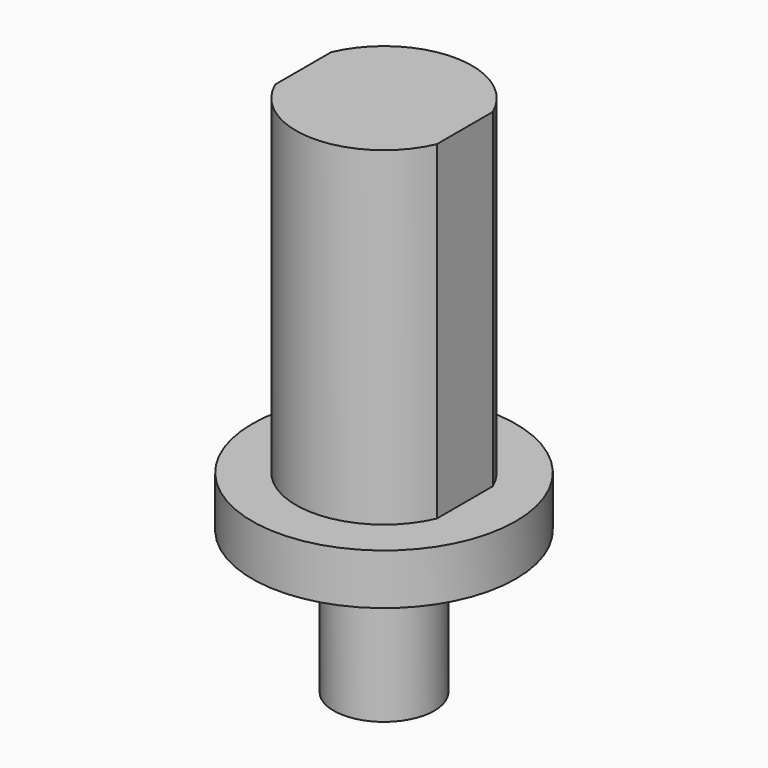
from build123d import *

# Parameters (mm, degrees)
F0_R     = 8.32
F1_DEPTH = 3.2
F3_DEPTH = 20.8
F4_R     = 3.175
F5_DEPTH = 9


with BuildPart() as f1:
    # F0 (on Top) → F1 (new body)
    with BuildSketch(Plane.XY):
        Circle(F0_R)
    extrude(amount=F1_DEPTH)

    # F2 (on face) → F3 (join)
    with BuildSketch(Plane.XY.offset(3.2)):
        with BuildLine():
            Line((5.1, -2.204975), (5.1, 2.204975))
            ThreePointArc((5.1, 2.204975), (0, 5.55625), (-5.1, 2.204975))
            Line((-5.1, 2.204975), (-5.1, -2.204975))
            ThreePointArc((-5.1, -2.204975), (0, -5.55625), (5.1, -2.204975))
        make_face()
    extrude(amount=F3_DEPTH)

    # F4 (on face) → F5 (join)
    with BuildSketch(Plane(origin=(0, 0, 0), x_dir=(1, 0, 0), z_dir=(0, 0, -1))):
        Circle(F4_R)
    extrude(amount=F5_DEPTH)


solid = f1.part
